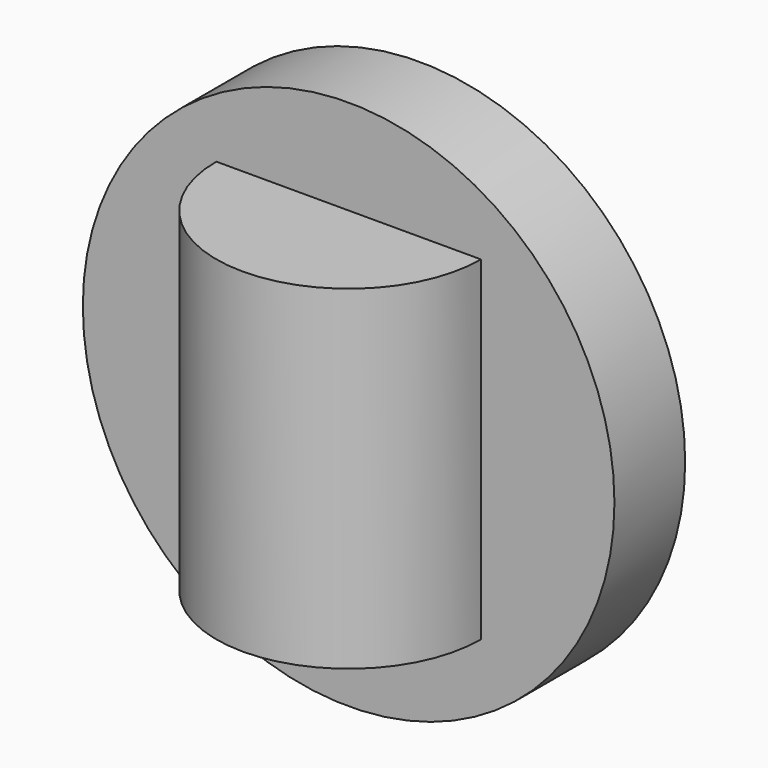
from build123d import *

# Parameters (mm, degrees)
F0_R     = 76.358995
F1_DEPTH = 25.4
F2_W     = 38.007736
F2_H     = 96.111521
F3_ANGLE = 180


with BuildPart() as f1:
    # F0 (on Front) → F1 (new body)
    with BuildSketch(Plane.XZ):
        Circle(F0_R)
    extrude(amount=F1_DEPTH)

    # F2 (on face) → F3 (revolve)
    with BuildSketch(Plane.XZ.offset(25.4)):
        with Locations((19.003868, 0.982959)):
            Rectangle(F2_W, F2_H)
    revolve(axis=Axis((0, -25.4, 0.982959), (0, 0, -1)), revolution_arc=F3_ANGLE)


solid = f1.part
